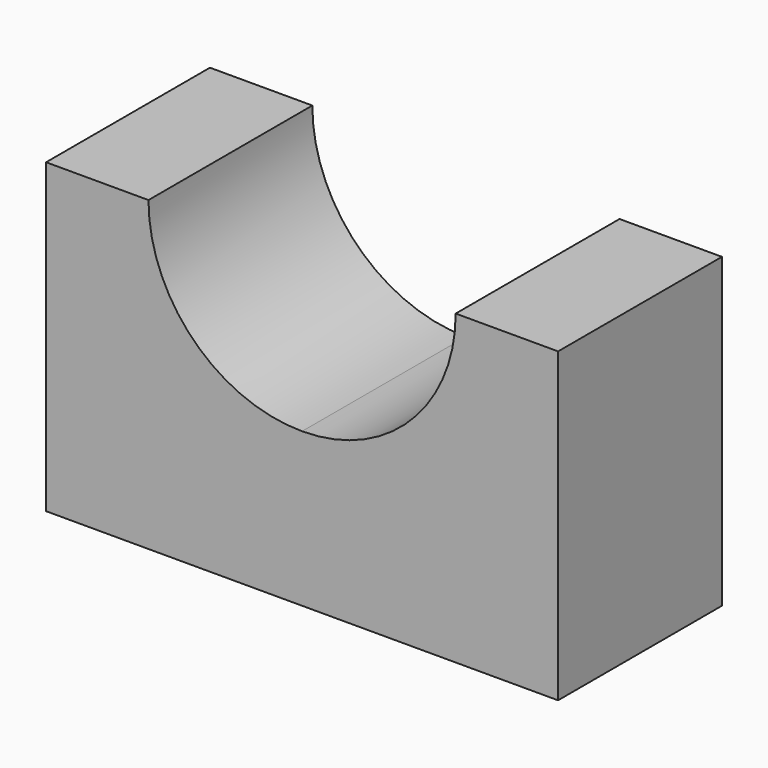
from build123d import *

# Parameters (mm, degrees)
F1_DEPTH = 25.4


with BuildPart() as f1:
    # F0 (on Front) → F1 (new body)
    with BuildSketch(Plane.XZ):
        with BuildLine():
            Line((-62.244336, 47.115693), (-74.944336, 47.115693))
            Line((-74.944336, 47.115693), (-74.944336, 9.015693))
            Line((-74.944336, 9.015693), (-43.194336, 9.015693))
            Line((-43.194336, 9.015693), (-43.194336, 28.065693))
            ThreePointArc((-43.194336, 28.065693), (-56.66472, 33.645309), (-62.244336, 47.115693))
        make_face()
        with BuildLine():
            Line((-11.444336, 47.115693), (-24.144336, 47.115693))
            ThreePointArc((-24.144336, 47.115693), (-29.723952, 33.645309), (-43.194336, 28.065693))
            Line((-43.194336, 28.065693), (-43.194336, 9.015693))
            Line((-43.194336, 9.015693), (-11.444336, 9.015693))
            Line((-11.444336, 9.015693), (-11.444336, 47.115693))
        make_face()
    extrude(amount=F1_DEPTH)


solid = f1.part
